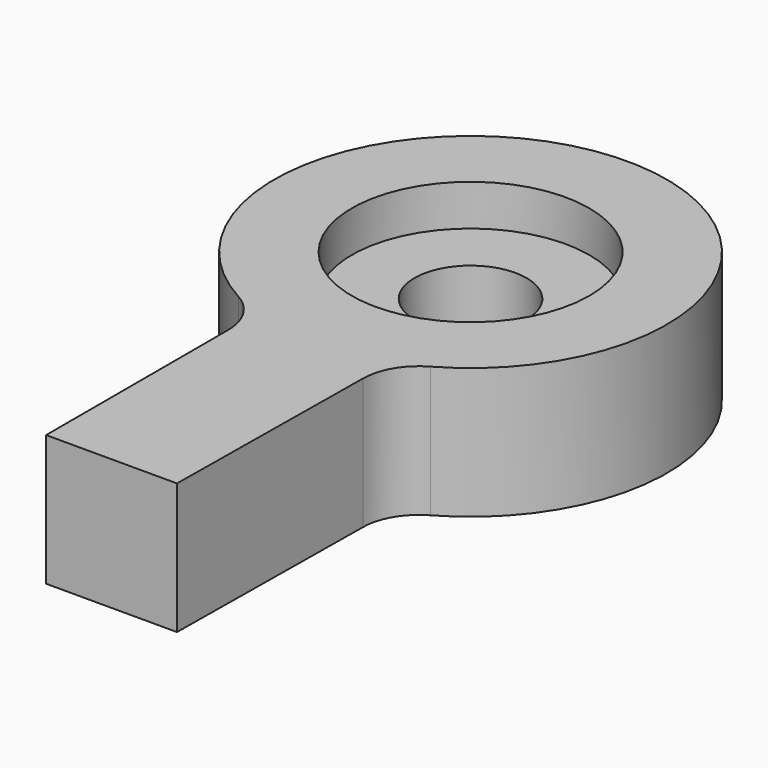
from build123d import *

# Parameters (mm, degrees)
F0_R     = 6.35
F1_DEPTH = 7
F2_R     = 3
F3_R     = 6.35
F3_R_2   = 3
F4_DEPTH = 4.8


with BuildPart() as f1:
    # F0 (on Top) → F1 (new body)
    with BuildSketch(Plane.XY):
        with BuildLine():
            Line((3.5, -24), (3.657538, -9.842378))
            ThreePointArc((3.657538, -9.842378), (-0.083786, 10.499666), (-3.5, -9.899495))
            Line((-3.5, -9.899495), (-3.5, -24))
            Line((-3.5, -24), (3.5, -24))
        make_face()
        Circle(F0_R, mode=Mode.SUBTRACT)
    extrude(amount=F1_DEPTH)

    # F2
    f2_edges = [f1.edges().sort_by_distance(p)[0] for p in [
        (-3.5, -9.899495, 3.5),
        (3.657538, -9.842378, 3.5),
    ]]
    fillet(f2_edges, radius=F2_R)

    # F3 (on face) → F4 (join)
    with BuildSketch(Plane(origin=(0, 0, 0), x_dir=(1, 0, 0), z_dir=(0, 0, -1))):
        Circle(F3_R)
        Circle(F3_R_2, mode=Mode.SUBTRACT)
    extrude(amount=-F4_DEPTH)


solid = f1.part
